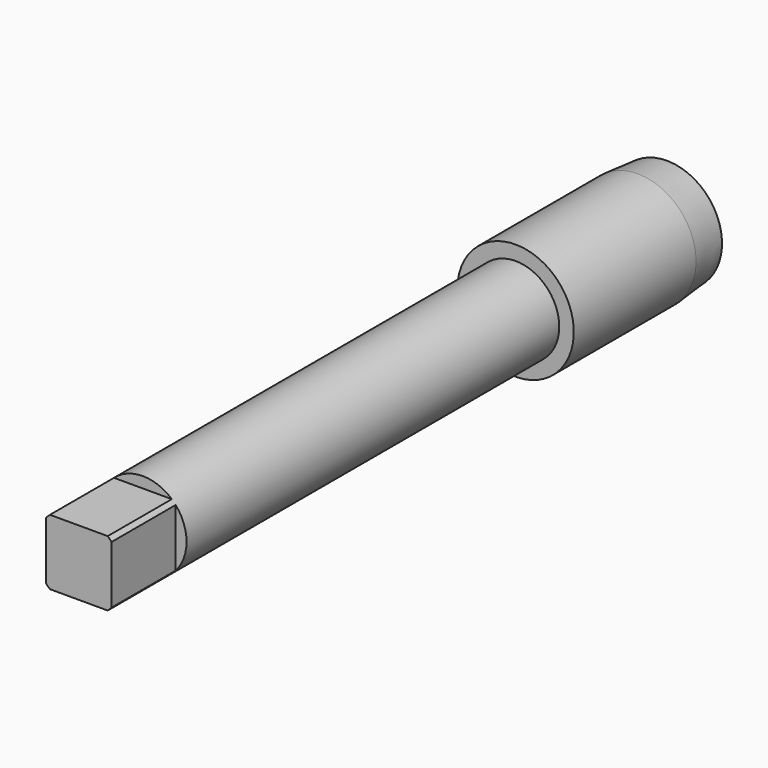
from build123d import *

# Parameters (mm, degrees)
F0_R     = 6
F1_DEPTH = 75
F3_DEPTH = 11
F4_R     = 8
F5_DEPTH = 26
F6_SIZE2 = 0.4374433176
F6_SIZE  = 5


with BuildPart() as f1:
    # F0 (on Front) → F1 (new body)
    with BuildSketch(Plane.XZ):
        Circle(F0_R)
    extrude(amount=F1_DEPTH)

    # F2 (on face) → F3 (cut)
    with BuildSketch(Plane.XZ.offset(75)):
        with BuildLine():
            Line((4.5, 3.9686269666), (4.5, -3.9686269666))
            ThreePointArc((4.5, -3.9686269666), (5.6124860802, -2.1213203436), (6, 0))
            ThreePointArc((6, 0), (5.6124860802, 2.1213203436), (4.5, 3.9686269666))
        make_face()
        with BuildLine():
            ThreePointArc((3.9686269666, 4.5), (0, 6), (-3.9686269666, 4.5))
            Line((-3.9686269666, 4.5), (3.9686269666, 4.5))
        make_face()
        with BuildLine():
            Line((3.9686269666, -4.5), (-3.9686269666, -4.5))
            ThreePointArc((-3.9686269666, -4.5), (0, -6), (3.9686269666, -4.5))
        make_face()
        with BuildLine():
            ThreePointArc((-4.5, 3.9686269666), (-6, 0), (-4.5, -3.9686269666))
            Line((-4.5, -3.9686269666), (-4.5, 3.9686269666))
        make_face()
    extrude(amount=-F3_DEPTH, mode=Mode.SUBTRACT)

    # F4 (on face) → F5 (join)
    with BuildSketch(Plane(origin=(0, 0, 0), x_dir=(-1, 0, 0), z_dir=(0, 1, 0))):
        Circle(F4_R)
    extrude(amount=F5_DEPTH)

    # F6
    f6_edges = [f1.edges().sort_by_distance(p)[0] for p in [
        (8, 26, 0),
    ]]
    f6_side = f1.faces().sort_by_distance((8, 13, 0))[0]
    chamfer(f6_edges, length=F6_SIZE, length2=F6_SIZE2, reference=f6_side)


solid = f1.part
